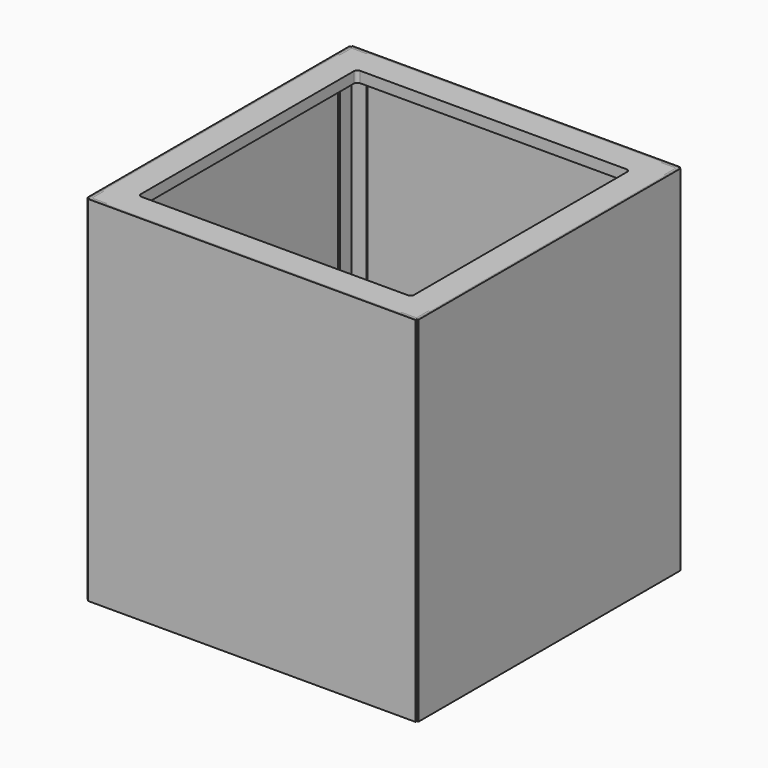
from build123d import *

# Parameters (mm, degrees)
F1_DEPTH          = 28
F3_W              = 500
F3_H              = 500
F4_DEPTH          = 20
F5_R              = 6.35
F6_DEPTH          = 648
F8_D              = 4.4
F8_CSINK_D        = 8.96
F8_CSINK_ANGLE    = 90
F8_2_D            = 4.4
F8_2_CSINK_D      = 8.96
F8_2_CSINK_ANGLE  = 90
F10_D             = 4.4
F10_CSINK_D       = 8.96
F10_CSINK_ANGLE   = 90
F10_2_D           = 4.4
F10_2_CSINK_D     = 8.96
F10_2_CSINK_ANGLE = 90
F10_3_D           = 4.4
F10_3_CSINK_D     = 8.96
F10_3_CSINK_ANGLE = 90
F12_W             = 600
F12_H             = 647.9999999997
F13_DEPTH         = 3
F14_COUNT         = 4


with BuildPart() as f1:
    # F0 (on Top) → F1 (new body)
    with BuildSketch(Plane.XY):
        Polygon((-270, -300), (270, -300), (270, -297), (297, -297), (297, -270), (300, -270), (300, 270), (297, 270), (297, 297), (270, 297), (270, 300), (-270, 300), (-270, 297), (-297, 297), (-297, 270), (-300, 270), (-300, -270), (-297, -270), (-297, -297), (-270, -297), align=None)
    extrude(amount=F1_DEPTH)

    # F10 (through all)
    with Locations(Plane.YZ.offset(300)):
        with Locations((285, 18.6666666667), (285, 634.6666666667)):
            CounterSinkHole(F10_D / 2, F10_CSINK_D / 2, counter_sink_angle=F10_CSINK_ANGLE)


with BuildPart() as f4:
    # F3 (on offset) → F4 (new body)
    with BuildSketch(Plane.XY.offset(628)):
        Polygon((270, 300), (-270, 300), (-270, 297), (-297, 297), (-297, 270), (-300, 270), (-300, -270), (-297, -270), (-297, -297), (-270, -297), (-270, -300), (270, -300), (270, -297), (297, -297), (297, -270), (300, -270), (300, 270), (297, 270), (297, 297), (270, 297), align=None)
        Rectangle(F3_W, F3_H, mode=Mode.SUBTRACT)
    extrude(amount=F4_DEPTH)

    # F5
    f5_edges = [f4.edges().sort_by_distance(p)[0] for p in [
        (-250, 250, 638),
        (250, 250, 638),
        (-250, -250, 638),
        (250, -250, 638),
    ]]
    fillet(f5_edges, radius=F5_R)

    # F8 (through all)
    with Locations(Plane(origin=(0, 300, 0), x_dir=(-1, 0, 0), z_dir=(0, 1, 0))):
        with Locations((-285, 641.3333333333), (-285, 9.3333333333)):
            CounterSinkHole(F8_D / 2, F8_CSINK_D / 2, counter_sink_angle=F8_CSINK_ANGLE)

    # F10#2 (through all)
    with Locations(Plane.YZ.offset(300)):
        with Locations((285, 18.6666666667), (285, 634.6666666667)):
            CounterSinkHole(F10_2_D / 2, F10_2_CSINK_D / 2, counter_sink_angle=F10_2_CSINK_ANGLE)


with BuildPart() as f6:
    # F0 (on Top) → F6 (new body, through all)
    with BuildSketch(Plane.XY):
        Polygon((297, 270), (300, 270), (300, 300), (270, 300), (270, 297), (297, 297), align=None)
    extrude(amount=F6_DEPTH)

    # F8#2 (through all)
    with Locations(Plane(origin=(0, 300, 0), x_dir=(-1, 0, 0), z_dir=(0, 1, 0))):
        with Locations((-285, 641.3333333333), (-285, 9.3333333333)):
            CounterSinkHole(F8_2_D / 2, F8_2_CSINK_D / 2, counter_sink_angle=F8_2_CSINK_ANGLE)

    # F10#3 (through all)
    with Locations(Plane.YZ.offset(300)):
        with Locations((285, 18.6666666667), (285, 634.6666666667)):
            CounterSinkHole(F10_3_D / 2, F10_3_CSINK_D / 2, counter_sink_angle=F10_3_CSINK_ANGLE)


with BuildPart() as f13:
    # F12 (on face) → F13 (new body)
    with BuildSketch(Plane(origin=(0, 300, 0), x_dir=(-1, 0, 0), z_dir=(0, 1, 0))):
        with Locations((0, 324.0000000002)):
            Rectangle(F12_W, F12_H)
    extrude(amount=F13_DEPTH)


with BuildPart() as f14_1:
    # F14: instance of F6
    add(f6.part.rotate(Axis((0, 0, 137.5811696053), (0, 0, 1)), 1 * 360 / F14_COUNT))


with BuildPart() as f14_2:
    # F14: instance of F6
    add(f6.part.rotate(Axis((0, 0, 137.5811696053), (0, 0, 1)), 2 * 360 / F14_COUNT))


with BuildPart() as f14_3:
    # F14: instance of F6
    add(f6.part.rotate(Axis((0, 0, 137.5811696053), (0, 0, 1)), 3 * 360 / F14_COUNT))


with BuildPart() as f14_4:
    # F14: instance of F13
    add(f13.part.rotate(Axis((0, 0, 137.5811696053), (0, 0, 1)), 1 * 360 / F14_COUNT))


with BuildPart() as f14_5:
    # F14: instance of F13
    add(f13.part.rotate(Axis((0, 0, 137.5811696053), (0, 0, 1)), 2 * 360 / F14_COUNT))


with BuildPart() as f14_6:
    # F14: instance of F13
    add(f13.part.rotate(Axis((0, 0, 137.5811696053), (0, 0, 1)), 3 * 360 / F14_COUNT))


solid = Compound([f1.part, f4.part, f6.part, f13.part, f14_1.part, f14_2.part, f14_3.part, f14_4.part, f14_5.part, f14_6.part])
